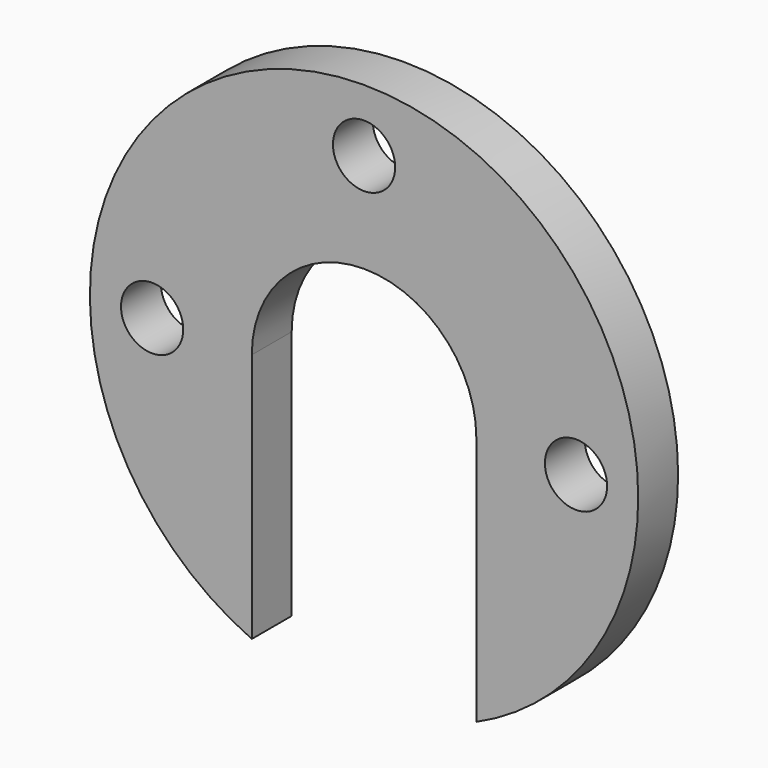
from build123d import *

# Parameters (mm, degrees)
F0_R     = 1.9812
F1_DEPTH = 1.5875


with BuildPart() as f1:
    # F0 (on Front) → F1 (new body, symmetric)
    with BuildSketch(Plane.XZ):
        with BuildLine():
            ThreePointArc((7.1501, -15.9315716814), (14.6594257647, -9.4889484402), (17.4625, 0))
            ThreePointArc((17.4625, 0), (-9.4889484402, 14.6594257647), (-7.1501, -15.9315716814))
            Line((-7.1501, -15.9315716814), (-7.1501, 0))
            ThreePointArc((-7.1501, 0), (0, 7.1501), (7.1501, 0))
            Line((7.1501, 0), (7.1501, -15.9315716814))
        make_face()
        with Locations((-13.5001, 0)):
            Circle(F0_R, mode=Mode.SUBTRACT)
        with Locations((13.5001, 0)):
            Circle(F0_R, mode=Mode.SUBTRACT)
        with Locations((0, 13.4874)):
            Circle(F0_R, mode=Mode.SUBTRACT)
    extrude(amount=F1_DEPTH, both=True)


solid = f1.part
